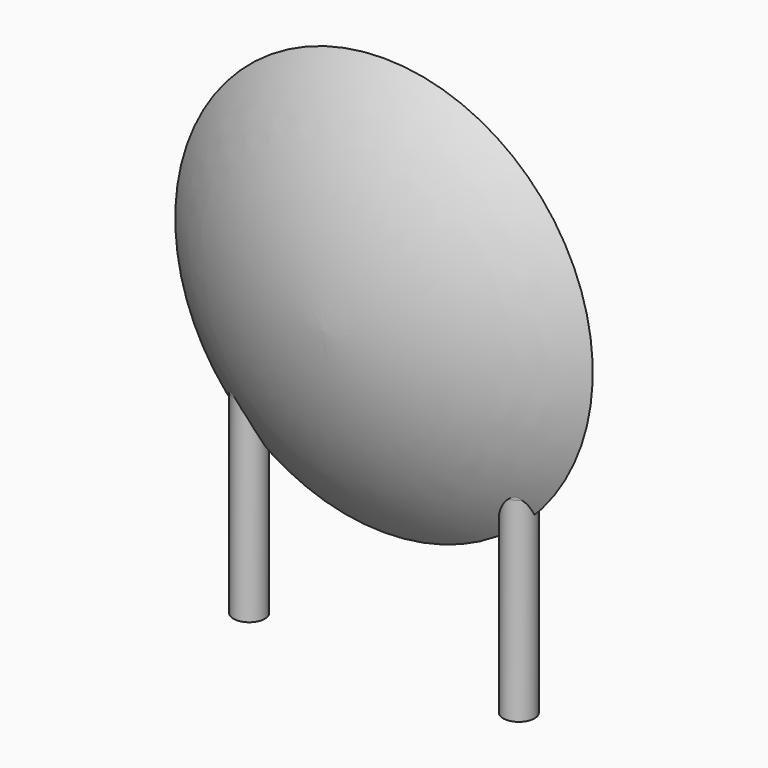
from build123d import *

# Parameters (mm, degrees)
SKETCH001_R       = 0.45
PAD001_DEPTH      = 2.4
PAD001_DEPTH_BACK = 3.2
SKETCH002_R       = 0.45
SKETCH003_R       = 0.45
SKETCH004_R       = 0.45
SKETCH005_R       = 0.45


with BuildPart() as pad001:
    # Sketch001 → Pad001 (new body, two sides)
    with BuildSketch(Plane.XY) as pad001_sk:
        Circle(SKETCH001_R)
        with Locations((7.75, 0)):
            Circle(SKETCH001_R)
    extrude(amount=PAD001_DEPTH)
    extrude(pad001_sk.sketch, amount=-PAD001_DEPTH_BACK)


with BuildPart() as revolution:
    # Sketch → Revolution (revolve)
    with BuildSketch(Plane.YZ.offset(3.875)):
        with BuildLine():
            Line((-2.2, 6.1), (2.2, 6.1))
            ThreePointArc((0, 0.1), (1.595374, 2.918363), (2.2, 6.1))
            ThreePointArc((-2.2, 6.1), (-1.595374, 2.918363), (0, 0.1))
        make_face()
    revolve(axis=Axis((3.875, -3.32079, 6.1), (0, 1, 0)))


with BuildPart() as loft_body:
    # Sketch002 → Loft section 0
    with BuildSketch(Plane.XY.offset(6)):
        with Locations((-0.925, 0)):
            Circle(SKETCH002_R)
    # Sketch003 → Loft section 1
    with BuildSketch(Plane.XY.offset(2.4)):
        Circle(SKETCH003_R)
    loft()


with BuildPart() as loft001:
    # Sketch004 → Loft001 section 0
    with BuildSketch(Plane.XY.offset(2.4)):
        with Locations((7.75, 0)):
            Circle(SKETCH004_R)
    # Sketch005 → Loft001 section 1
    with BuildSketch(Plane.XY.offset(6)):
        with Locations((8.675, 0)):
            Circle(SKETCH005_R)
    loft()


solid = Compound([pad001.part, revolution.part, loft_body.part, loft001.part])
